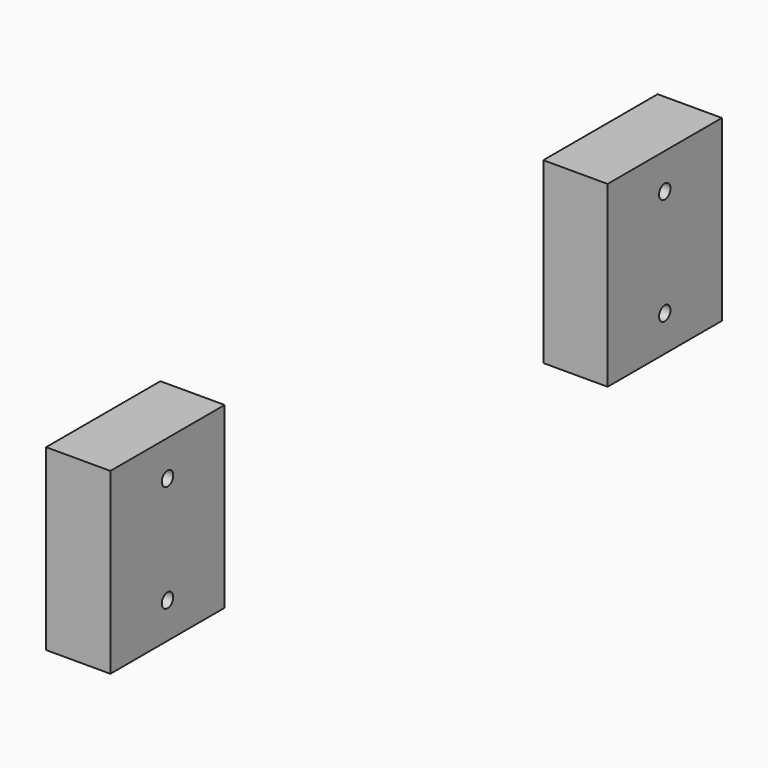
from build123d import *

# Parameters (mm, degrees)
CYLINDER023_R           = 2
CYLINDER023_DEPTH       = 18
CYLINDER023_PITCH_ANGLE = 90
ARRAY025_Z_COUNT        = 2
ARRAY025_Z_PITCH        = 30
BOX015_W                = 18
BOX015_H                = 40
BOX015_DEPTH            = 50
ARRAY028_Y_COUNT        = 2
ARRAY028_Y_PITCH        = 174


with BuildPart() as array025:
    # Cylinder023 → Cylinder023 (new body)
    with BuildSketch(Plane.XY):
        Circle(CYLINDER023_R)
    extrude(amount=CYLINDER023_DEPTH)


with BuildPart() as array025_1:
    # Cylinder023 pitch: moved
    add(array025.part.rotate(Axis((0, 0, 0), (0, 1, 0)), CYLINDER023_PITCH_ANGLE))


with BuildPart() as array025_2:
    # Cylinder023 placement: moved
    add(array025_1.part.moved(Location((-152, 87, -14))))

    # Array025 Z: Array025 ×2


with BuildPart() as array025_3:
    add(array025_2.part)
    with Locations(*[(0, 0, -i * ARRAY025_Z_PITCH) for i in range(1, ARRAY025_Z_COUNT)]):
        add(array025_2.part)


with BuildPart() as case_2_con007:
    # Box015 → Box015 (new body)
    with BuildSketch(Plane(origin=(-152, 67, -54), x_dir=(1, 0, 0), z_dir=(0, 0, 1))):
        with Locations((9, 20)):
            Rectangle(BOX015_W, BOX015_H)
    extrude(amount=BOX015_DEPTH)

    # Cut026: cut Array025
    add(array025_3.part, mode=Mode.SUBTRACT)

    # Array028 Y: CASE_2_con007 ×2


with BuildPart() as case_2_con007_1:
    add(case_2_con007.part)
    with Locations(*[(0, -i * ARRAY028_Y_PITCH, 0) for i in range(1, ARRAY028_Y_COUNT)]):
        add(case_2_con007.part)


solid = case_2_con007_1.part
